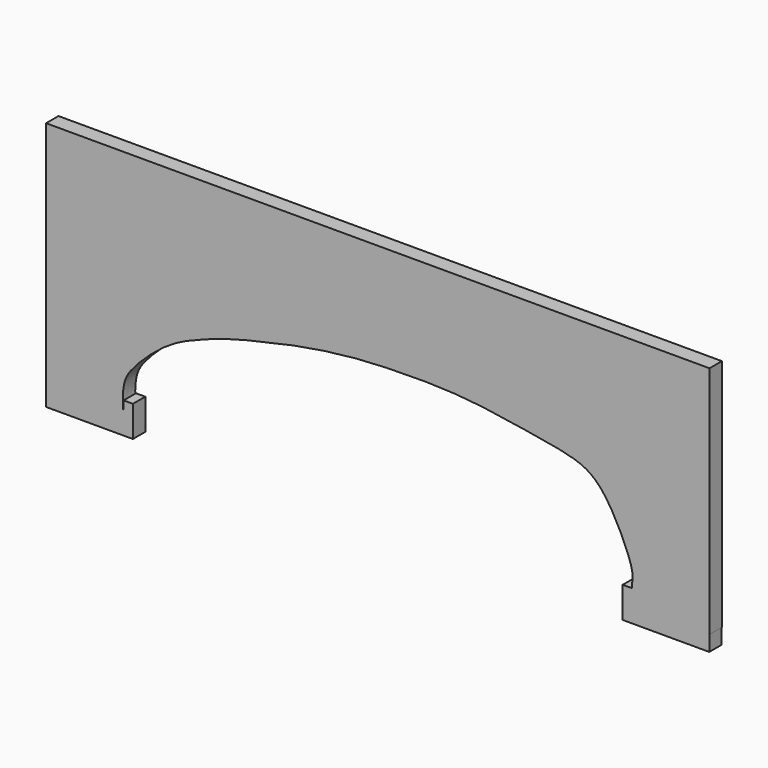
from build123d import *

# Parameters (mm, degrees)
F0_W     = 3
F0_H     = 5
F1_DEPTH = 5


with BuildPart() as f1:
    # F0 (on Front) → F1 (new body)
    with BuildSketch(Plane.XZ):
        Polygon((-153.931453824, 0), (-155.1526284828, 0), (-161.7847054601, 0), (-161.7847054601, -5), (-133.7847054601, -5), (-133.7847054601, 0), (-136.7847054601, 0), (-151.8627256155, 0), align=None)
        with Locations((-135.2847054601, 2.5)):
            Rectangle(F0_W, F0_H)
        with BuildLine():
            Line((-161.7847054601, 0), (-155.1526284828, 0))
            Line((-155.1526284828, 0), (-153.931453824, 0))
            Line((-153.931453824, 0), (-151.8627256155, 0))
            Line((-151.8627256155, 0), (-136.7847054601, 0))
            add(Edge.make_bspline(
                [(-136.7847054601, 0), (-137.550605581, 9.1907943609), (-135.5620132118, 14.1735625634), (-123.0103345841, 25.7878123059), (-113.0063506641, 30.0053916685), (-102.8318059019, 33.7226779983), (-92.7984950175, 35.9731800942), (-82.8100310019, 38.3552919351), (-72.8042943257, 40.0781384311), (-62.798577269, 41.3146029444), (-52.7879988202, 41.8561243727), (-42.7852293417, 42.0597226825), (-32.7769905911, 41.9048535139), (-22.7692720043, 41.1183686559), (-12.7682307799, 39.611832621), (-2.8094485421, 38.0255290619), (7.6206097812, 36.2310917), (18.4393837123, 32.1627572859), (26.3010010822, 14.3455654248), (27.2152945399, 10.1618142799)],
                knots=[0, 0, 0, 0, 0.0644493237, 0.1280755407, 0.1831904296, 0.2368426895, 0.2897631564, 0.3425351335, 0.395054152, 0.4473652388, 0.4995365313, 0.5516661866, 0.6037958419, 0.6560034853, 0.7083814826, 0.7608363672, 0.8134744142, 0.8697637546, 0.9474555247, 0.9474555247, 0.9474555247, 0.9474555247], degree=3))
            add(Edge.make_bspline(
                [(27.2152945399, 10.1618142799), (27.5799221206, 8.4933006912), (27.3649107752, 7.8026010468), (27.2152945399, 6.0168802749)],
                knots=[0.9474555247, 0.9474555247, 0.9474555247, 0.9474555247, 0.9784396272, 0.9784396272, 0.9784396272, 0.9784396272], degree=3))
            Line((27.2152945399, 6.0168802749), (27.2152945399, 5))
            Line((27.2152945399, 5), (27.2152945399, 0))
            Line((27.2152945399, 0), (52.1374652833, 0))
            Line((52.1374652833, 0), (52.2152945399, 0))
            Line((52.2152945399, 0), (52.2152945399, 75.5819380283))
            Line((52.2152945399, 75.5819380283), (-161.7847054601, 75.5819380283))
            Line((-161.7847054601, 75.5819380283), (-161.7847054601, 0))
        make_face()
        with BuildLine():
            Line((24.2152945399, 5), (24.2152945399, 0))
            Line((24.2152945399, 0), (27.2152945399, 0))
            add(Edge.make_bspline(
                [(27.1477780723, 5), (27.0906424161, 3.8338027227), (27.081911119, 2.26751635), (27.2152945399, 0)],
                knots=[0.9837117694, 0.9837117694, 0.9837117694, 0.9837117694, 1, 1, 1, 1], degree=3))
            Line((27.1477780723, 5), (24.2152945399, 5))
        make_face()
        Polygon((52.1374652833, -5), (52.1374652833, 0), (27.2152945399, 0), (24.2152945399, 0), (24.2152945399, -5), align=None)
    extrude(amount=F1_DEPTH)


solid = f1.part
